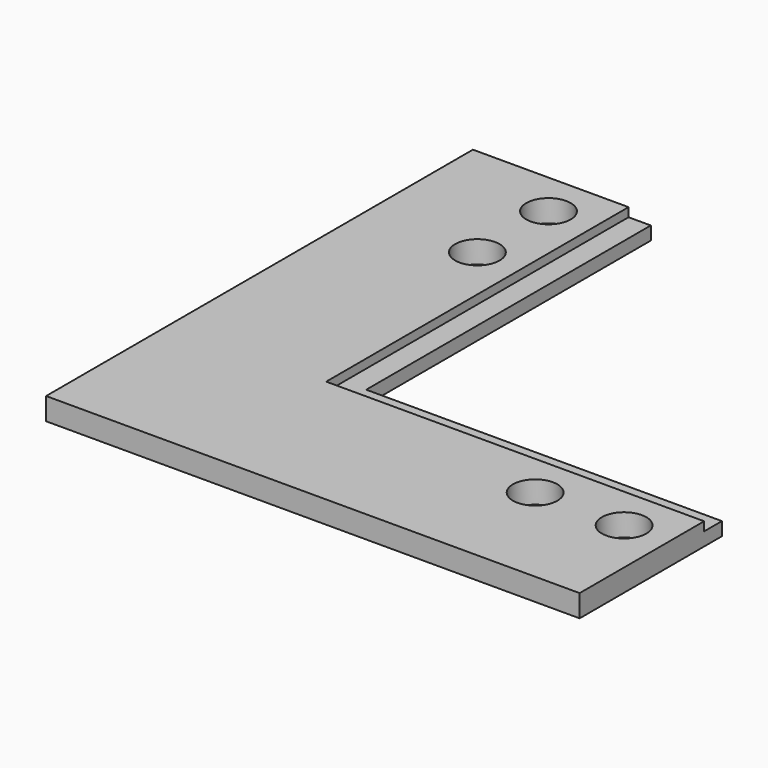
from build123d import *

# Parameters (mm, degrees)
F1_DEPTH = 3.175
F3_DEPTH = 1.27
F4_R     = 3.175
F5_DEPTH = 25.4


with BuildPart() as f1:
    # F0 (on Top) → F1 (new body)
    with BuildSketch(Plane.XY):
        Polygon((0, 76.2), (0, 0), (76.2, 0), (76.2, 25.4), (25.4, 25.4), (25.4, 76.2), align=None)
    extrude(amount=F1_DEPTH)

    # F2 (on face) → F3 (cut)
    with BuildSketch(Plane.XY.offset(3.175)):
        Polygon((25.4, 25.4), (25.4, 76.2), (22.225, 76.2), (22.225, 25.4), (22.225, 22.225), (25.4, 22.225), (76.2, 22.225), (76.2, 25.4), align=None)
    extrude(amount=-F3_DEPTH, mode=Mode.SUBTRACT)

    # F4 (on face) → F5 (cut)
    with BuildSketch(Plane.XY.offset(3.175)):
        with Locations((69.85, 15.875)):
            Circle(F4_R)
        with Locations((57.15, 15.875)):
            Circle(F4_R)
        with Locations((15.875, 69.85)):
            Circle(F4_R)
        with Locations((15.875, 57.15)):
            Circle(F4_R)
    extrude(amount=-F5_DEPTH, mode=Mode.SUBTRACT)


solid = f1.part
